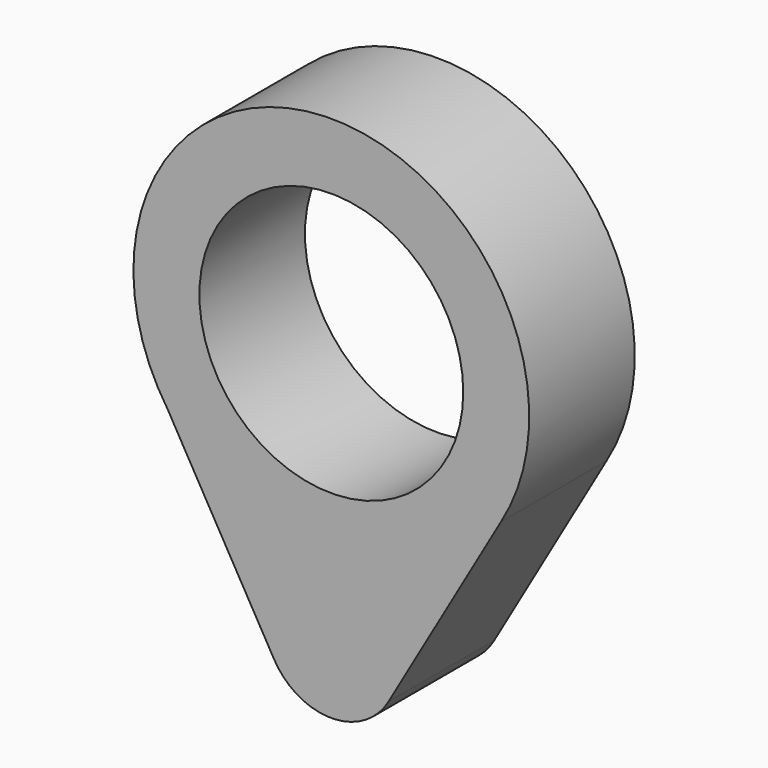
from build123d import *

# Parameters (mm, degrees)
F0_R     = 12.7
F1_DEPTH = 12.7


with BuildPart() as f1:
    # F0 (on Front) → F1 (new body)
    with BuildSketch(Plane.XZ):
        with BuildLine():
            Line((5.499704, -28.574233), (16.325591, -9.817209))
            ThreePointArc((16.325591, -9.817209), (-0.543187, 19.042254), (-15.739421, -10.731875))
            Line((-15.739421, -10.731875), (-5.507476, -28.56073))
            ThreePointArc((-5.507476, -28.56073), (-0.00779, -31.749995), (5.499704, -28.574233))
        make_face()
        Circle(F0_R, mode=Mode.SUBTRACT)
    extrude(amount=F1_DEPTH)


solid = f1.part
